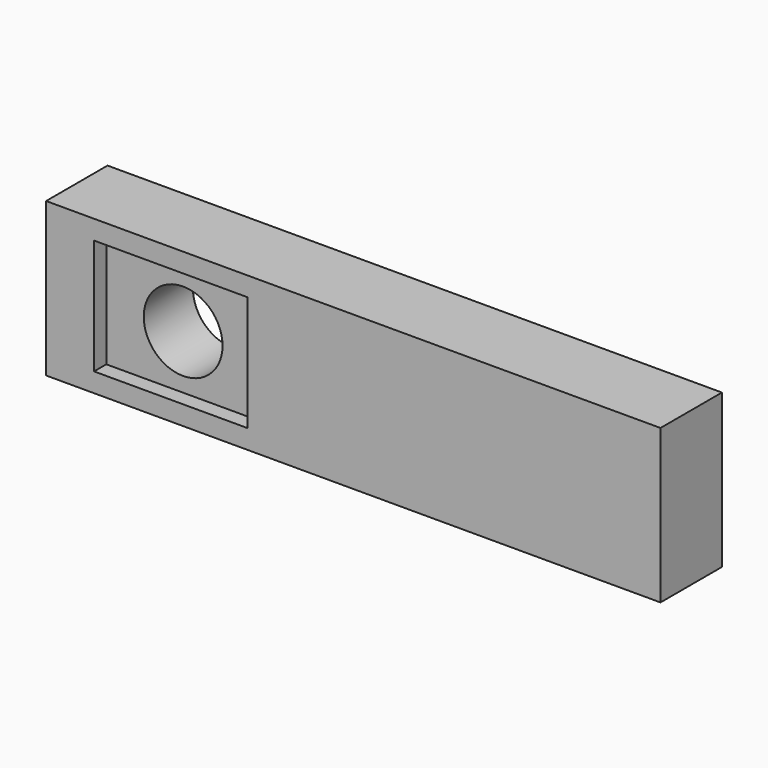
from build123d import *

# Parameters (mm, degrees)
F0_W     = 101.6
F0_H     = 25.4
F1_DEPTH = 12.7
F2_W     = 25.4
F2_H     = 19.05
F3_DEPTH = 2.54
F5_DEPTH = 25.4


with BuildPart() as f1:
    # F0 (on Front) → F1 (new body)
    with BuildSketch(Plane.XZ):
        with Locations((17.4680363059, 0.5822056818)):
            Rectangle(F0_W, F0_H)
    extrude(amount=F1_DEPTH)

    # F2 (on face) → F3 (cut)
    with BuildSketch(Plane.XZ.offset(12.7)):
        with Locations((-12.7, 0.5822056818)):
            Rectangle(F2_W, F2_H)
    extrude(amount=-F3_DEPTH, mode=Mode.SUBTRACT)

    # F4 (on face) → F5 (cut)
    with BuildSketch(Plane.XZ.offset(10.16)):
        with BuildLine():
            ThreePointArc((-19.21444736, 0), (-12.7, -6.51444736), (-6.18555264, 0))
            Line((-6.18555264, 0), (-19.21444736, 0))
        make_face()
        with BuildLine():
            Line((-19.21444736, 0), (-6.18555264, 0))
            ThreePointArc((-6.18555264, 0), (-12.7, 6.51444736), (-19.21444736, 0))
        make_face()
    extrude(amount=-F5_DEPTH, mode=Mode.SUBTRACT)


solid = f1.part
